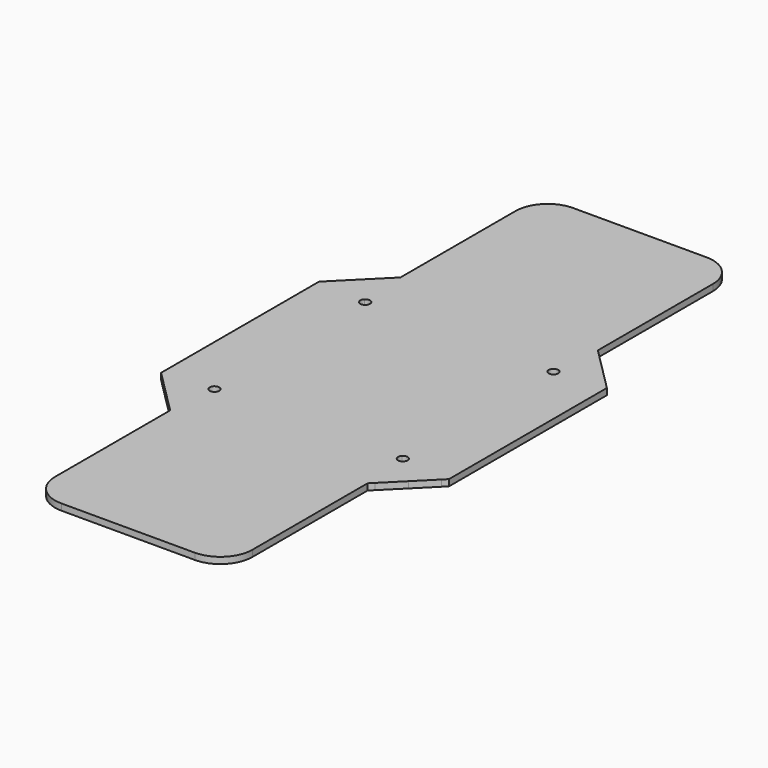
from build123d import *

# Parameters (mm, degrees)
F1_DEPTH = 2


with BuildPart() as f1:
    # F0 (on Top) → F1 (new body)
    with BuildSketch(Plane.XY):
        with BuildLine():
            Line((30.504311, -30.504311), (37.928932, -37.928932))
            Line((37.928932, -37.928932), (43.727208, -32.130657))
            Line((43.727208, -32.130657), (12.869343, -1.272792))
            Line((12.869343, -1.272792), (7.071068, -7.071068))
            Line((7.071068, -7.071068), (28.382991, -28.382991))
            ThreePointArc((28.382991, -28.382991), (30.017676, -28.057832), (30.943651, -29.443651))
            ThreePointArc((30.943651, -29.443651), (30.82947, -30.017676), (30.504311, -30.504311))
        make_face()
        with BuildLine():
            Line((-43.727208, -32.130657), (-37.928932, -37.928932))
            Line((-37.928932, -37.928932), (-30.504311, -30.504311))
            ThreePointArc((-30.504311, -30.504311), (-30.504311, -28.382991), (-28.382991, -28.382991))
            Line((-28.382991, -28.382991), (-7.071068, -7.071068))
            Line((-7.071068, -7.071068), (-12.869343, -1.272792))
            Line((-12.869343, -1.272792), (-43.727208, -32.130657))
        make_face()
        Polygon((14.142136, 0), (45, -30.857864), (45, 30.857864), align=None)
        Polygon((0, 11.596551), (5.798276, 5.798276), (7.071068, 7.071068), (1.272792, 12.869343), (32.130657, 43.727208), (30.857864, 45), (0, 14.142136), (-30.857864, 45), (-32.130657, 43.727208), (-1.272792, 12.869343), (-7.071068, 7.071068), (-5.798276, 5.798276), align=None)
        with BuildLine():
            Line((-28.382991, 28.382991), (-7.071068, 7.071068))
            Line((-7.071068, 7.071068), (-1.272792, 12.869343))
            Line((-1.272792, 12.869343), (-32.130657, 43.727208))
            Line((-32.130657, 43.727208), (-37.928932, 37.928932))
            Line((-37.928932, 37.928932), (-30.504311, 30.504311))
            ThreePointArc((-30.504311, 30.504311), (-28.869626, 30.82947), (-27.943651, 29.443651))
            ThreePointArc((-27.943651, 29.443651), (-28.057832, 28.869626), (-28.382991, 28.382991))
        make_face()
        Polygon((-5.798276, 5.798276), (0, 0), (5.798276, 5.798276), (0, 11.596551), align=None)
        Polygon((-30.857864, -45), (30.857864, -45), (0, -14.142136), align=None)
        Polygon((0, -14.142136), (30.857864, -45), (32.130657, -43.727208), (1.272792, -12.869343), (7.071068, -7.071068), (5.798276, -5.798276), (0, -11.596551), (-5.798276, -5.798276), (-7.071068, -7.071068), (-1.272792, -12.869343), (-32.130657, -43.727208), (-30.857864, -45), align=None)
        with BuildLine():
            Line((-37.928932, -37.928932), (-32.130657, -43.727208))
            Line((-32.130657, -43.727208), (-1.272792, -12.869343))
            Line((-1.272792, -12.869343), (-7.071068, -7.071068))
            Line((-7.071068, -7.071068), (-28.382991, -28.382991))
            ThreePointArc((-28.382991, -28.382991), (-28.057832, -28.869626), (-27.943651, -29.443651))
            ThreePointArc((-27.943651, -29.443651), (-28.869626, -30.82947), (-30.504311, -30.504311))
            Line((-30.504311, -30.504311), (-37.928932, -37.928932))
        make_face()
        with BuildLine():
            Line((-37.928932, 37.928932), (-43.727208, 32.130657))
            Line((-43.727208, 32.130657), (-12.869343, 1.272792))
            Line((-12.869343, 1.272792), (-7.071068, 7.071068))
            Line((-7.071068, 7.071068), (-28.382991, 28.382991))
            ThreePointArc((-28.382991, 28.382991), (-30.504311, 28.382991), (-30.504311, 30.504311))
            Line((-30.504311, 30.504311), (-37.928932, 37.928932))
        make_face()
        Polygon((-45, 30.857864), (-45, -30.857864), (-14.142136, 0), align=None)
        with BuildLine():
            Line((30.857864, -90), (30.857864, -45))
            Line((30.857864, -45), (-30.857864, -45))
            Line((-30.857864, -45), (-30.857864, -90))
            ThreePointArc((-30.857864, -90), (-27.928932, -97.071068), (-20.857864, -100))
            Line((-20.857864, -100), (20.857864, -100))
            ThreePointArc((20.857864, -100), (27.928932, -97.071068), (30.857864, -90))
        make_face()
        Polygon((0, 0), (5.798276, -5.798276), (11.596551, 0), (5.798276, 5.798276), align=None)
        Polygon((0, -11.596551), (5.798276, -5.798276), (0, 0), (-5.798276, -5.798276), align=None)
        Polygon((-45, -30.857864), (-43.727208, -32.130657), (-12.869343, -1.272792), (-7.071068, -7.071068), (-5.798276, -5.798276), (-11.596551, 0), (-5.798276, 5.798276), (-7.071068, 7.071068), (-12.869343, 1.272792), (-43.727208, 32.130657), (-45, 30.857864), (-14.142136, 0), align=None)
        with BuildLine():
            Line((30.504311, 30.504311), (37.928932, 37.928932))
            Line((37.928932, 37.928932), (32.130657, 43.727208))
            Line((32.130657, 43.727208), (1.272792, 12.869343))
            Line((1.272792, 12.869343), (7.071068, 7.071068))
            Line((7.071068, 7.071068), (28.382991, 28.382991))
            ThreePointArc((28.382991, 28.382991), (28.382991, 30.504311), (30.504311, 30.504311))
        make_face()
        with BuildLine():
            Line((12.869343, 1.272792), (43.727208, 32.130657))
            Line((43.727208, 32.130657), (37.928932, 37.928932))
            Line((37.928932, 37.928932), (30.504311, 30.504311))
            ThreePointArc((30.504311, 30.504311), (30.82947, 30.017676), (30.943651, 29.443651))
            ThreePointArc((30.943651, 29.443651), (30.017676, 28.057832), (28.382991, 28.382991))
            Line((28.382991, 28.382991), (7.071068, 7.071068))
            Line((7.071068, 7.071068), (12.869343, 1.272792))
        make_face()
        Polygon((0, 14.142136), (30.857864, 45), (-30.857864, 45), align=None)
        Polygon((-11.596551, 0), (-5.798276, -5.798276), (0, 0), (-5.798276, 5.798276), align=None)
        Polygon((12.869343, -1.272792), (43.727208, -32.130657), (45, -30.857864), (14.142136, 0), (45, 30.857864), (43.727208, 32.130657), (12.869343, 1.272792), (7.071068, 7.071068), (5.798276, 5.798276), (11.596551, 0), (5.798276, -5.798276), (7.071068, -7.071068), align=None)
        with BuildLine():
            Line((-30.857864, 45), (30.857864, 45))
            Line((30.857864, 45), (30.857864, 90))
            ThreePointArc((30.857864, 90), (27.928932, 97.071068), (20.857864, 100))
            Line((20.857864, 100), (-20.857864, 100))
            ThreePointArc((-20.857864, 100), (-27.928932, 97.071068), (-30.857864, 90))
            Line((-30.857864, 90), (-30.857864, 45))
        make_face()
        with BuildLine():
            Line((1.272792, -12.869343), (32.130657, -43.727208))
            Line((32.130657, -43.727208), (37.928932, -37.928932))
            Line((37.928932, -37.928932), (30.504311, -30.504311))
            ThreePointArc((30.504311, -30.504311), (28.382991, -30.504311), (28.382991, -28.382991))
            Line((28.382991, -28.382991), (7.071068, -7.071068))
            Line((7.071068, -7.071068), (1.272792, -12.869343))
        make_face()
    extrude(amount=F1_DEPTH)


solid = f1.part
